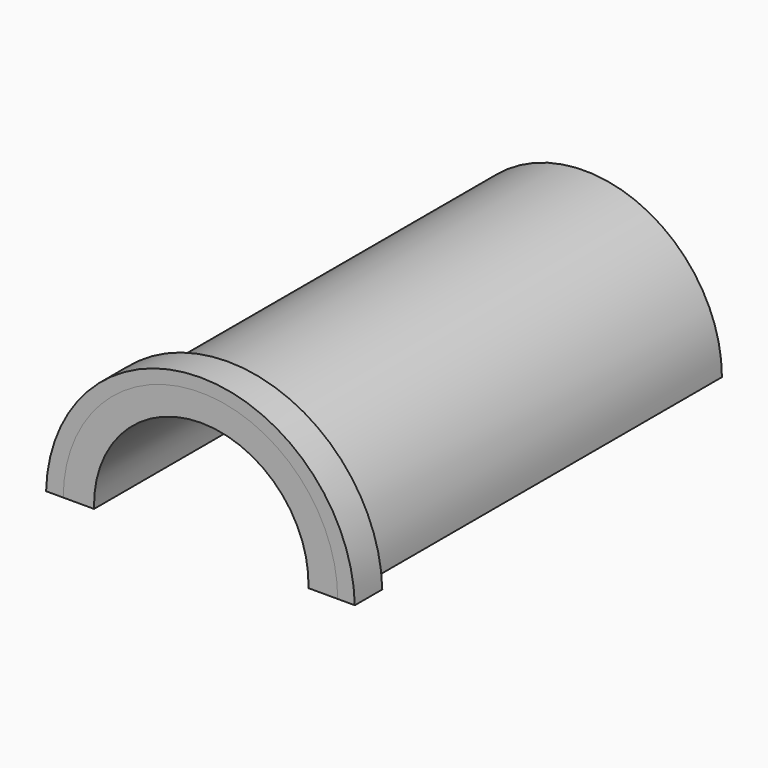
from build123d import *

# Parameters (mm, degrees)
F1_DEPTH = 88.9
F3_DEPTH = 6.35
F5_DEPTH = 76.2


with BuildPart() as f1:
    # F0 (on Front) → F1 (new body)
    with BuildSketch(Plane.XZ):
        with BuildLine():
            Line((-25.4, 0), (25.4, 0))
            ThreePointArc((25.4, 0), (0, 25.4), (-25.4, 0))
        make_face()
    extrude(amount=F1_DEPTH)

    # F4 (on face) → F5 (cut)
    with BuildSketch(Plane.XZ.offset(88.9)):
        with BuildLine():
            Line((-19.698048, 0), (19.992232, 0))
            ThreePointArc((19.992232, 0), (0.147092, 20.484511), (-19.698048, 0))
        make_face()
    extrude(amount=-F5_DEPTH, mode=Mode.SUBTRACT)


with BuildPart() as f3:
    # F2 (on face) → F3 (new body)
    with BuildSketch(Plane.XZ.offset(88.9)):
        with BuildLine():
            ThreePointArc((-25.4, 0), (0, 25.4), (25.4, 0))
            Line((25.4, 0), (28.575, 0))
            ThreePointArc((28.575, 0), (0, 27.843911), (-28.575, 0))
            Line((-28.575, 0), (-25.4, 0))
        make_face()
    extrude(amount=-F3_DEPTH)


solid = Compound([f1.part, f3.part])
